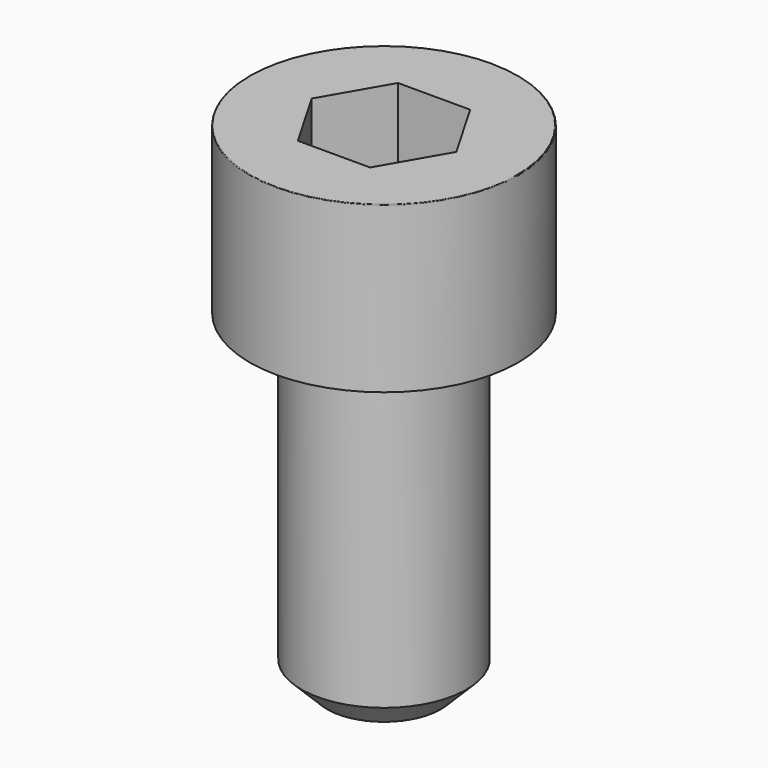
from build123d import *

# Parameters (mm, degrees)
POCKET_DEPTH = 6.06


with BuildPart() as part:
    # Sketch → Revolve (revolve)
    with BuildSketch(Plane.YZ):
        with BuildLine():
            Line((3.999, 0), (6.5, 0))
            Line((6.5, 0), (6.5, 7.97229))
            ThreePointArc((6.5, 7.97229), (6.491884, 7.991884), (6.47229, 8))
            Line((6.47229, 8), (0, 8))
            Line((0, -16), (0, 8))
            Line((2.75, -16), (0, -16))
            Line((4, -14.75), (2.75, -16))
            Line((4, -0.2), (4, -14.75))
            Line((3.999, 0), (4, -0.2))
        make_face()
    revolve(axis=Axis((0, 0, 0), (0, 0, 1)))

    # Sketch001 → Pocket (cut)
    with BuildSketch(Plane.XY.offset(8)):
        Polygon((3.498743, 0), (1.749371, 3.03), (-1.749371, 3.03), (-3.498743, 0), (-1.749371, -3.03), (1.749371, -3.03), align=None)
    extrude(amount=-POCKET_DEPTH, mode=Mode.SUBTRACT)


solid = part.part
